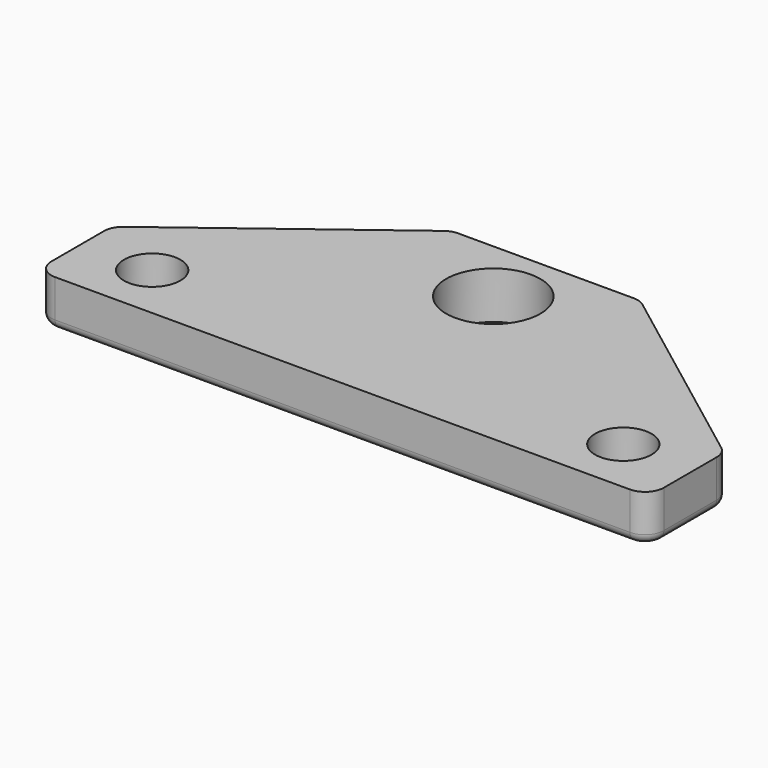
from build123d import *

# Parameters (mm, degrees)
F0_R     = 3
F0_R_2   = 5
F1_DEPTH = 5
F2_R     = 2
F3_R     = 1


with BuildPart() as f1:
    # F0 (on Top) → F1 (new body)
    with BuildSketch(Plane.XY):
        Polygon((-32.5, -24.019127), (-32.5, -34.019127), (32.5, -34.019127), (32.5, -24.019127), (10, -7.019127), (-10, -7.019127), align=None)
        with Locations((-25, -28.019127)):
            Circle(F0_R, mode=Mode.SUBTRACT)
        with Locations((25, -28.019127)):
            Circle(F0_R, mode=Mode.SUBTRACT)
        with Locations((0, -14.019127)):
            Circle(F0_R_2, mode=Mode.SUBTRACT)
    extrude(amount=F1_DEPTH)

    # F2
    f2_edges = [f1.edges().sort_by_distance(p)[0] for p in [
        (-10, -7.019127, 2.5),
        (-32.5, -24.019127, 2.5),
        (10, -7.019127, 2.5),
        (32.5, -24.019127, 2.5),
        (-32.5, -34.019127, 2.5),
        (32.5, -34.019127, 2.5),
    ]]
    fillet(f2_edges, radius=F2_R)

    # F3
    f3_edges = [f1.edges().sort_by_distance(p)[0] for p in [
        (-21.120362, -15.421178, 0),
        (-32.5, -28.516913, 0),
        (0, -34.019127, 0),
        (32.5, -28.516913, 0),
        (21.120362, -15.421178, 0),
        (0, -7.019127, 0),
    ]]
    fillet(f3_edges, radius=F3_R)


solid = f1.part
